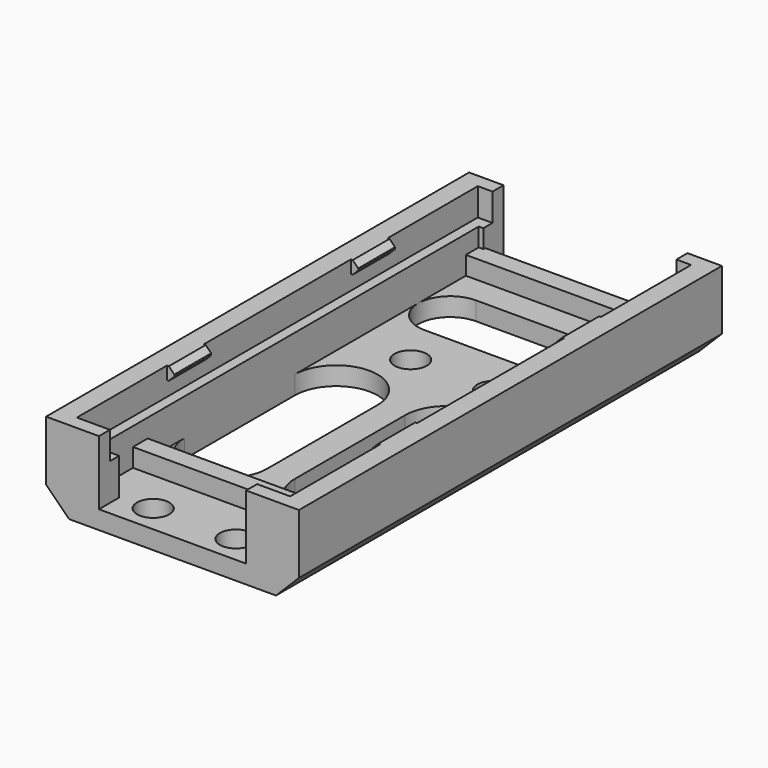
from build123d import *

# Parameters (mm, degrees)
SKETCH_W        = 27.5
SKETCH_H        = 57.5
SKETCH_R        = 1.75
PAD_DEPTH       = 9
POCKET_DEPTH    = 7
SKETCH002_W     = 23.2
SKETCH002_H     = 54.5
POCKET001_DEPTH = 3
SKETCH003_W     = 0.8
SKETCH003_H     = 5
PAD001_DEPTH    = 1.4
CHAMFER_SIZE    = 0.6
SKETCH004_W     = 20
SKETCH004_H     = 3
POCKET002_DEPTH = 9.001
SKETCH005_W     = 21.5
SKETCH005_H     = 2
PAD002_DEPTH    = 2
POCKET003_DEPTH = 3
CHAMFER001_SIZE = 2.5


with BuildPart() as part:
    # Sketch → Pad (new body)
    with BuildSketch(Plane.XY):
        Rectangle(SKETCH_W, SKETCH_H)
        with Locations((-4.5, 9.25)):
            Circle(SKETCH_R, mode=Mode.SUBTRACT)
        with Locations((-4.5, -25.75)):
            Circle(SKETCH_R, mode=Mode.SUBTRACT)
        with Locations((4.5, 9.25)):
            Circle(SKETCH_R, mode=Mode.SUBTRACT)
        with Locations((4.5, -25.75)):
            Circle(SKETCH_R, mode=Mode.SUBTRACT)
    extrude(amount=PAD_DEPTH)

    # Sketch001 (on Face10 of Pad) → Pocket (cut)
    with BuildSketch(Plane.XY.offset(9)):
        Polygon((-10.5, 26), (10.5, 26), (10.5, -26), (8, -26), (8, -29), (-8, -29), (-8, -26), (-10.5, -26), align=None)
    extrude(amount=-POCKET_DEPTH, mode=Mode.SUBTRACT)

    # Sketch002 (on Face5 of Pocket) → Pocket001 (cut)
    with BuildSketch(Plane.XY.offset(9)):
        Rectangle(SKETCH002_W, SKETCH002_H)
    extrude(amount=-POCKET001_DEPTH, mode=Mode.SUBTRACT)

    # Sketch003 (on Face5 of Pocket001) → Pad001 (join)
    with BuildSketch(Plane.XY.offset(9)):
        with Locations((-11.2, 12.5)):
            Rectangle(SKETCH003_W, SKETCH003_H)
        with Locations((-11.2, -12.5)):
            Rectangle(SKETCH003_W, SKETCH003_H)
        with Locations((11.2, -12.5)):
            Rectangle(SKETCH003_W, SKETCH003_H)
        with Locations((11.2, 12.5)):
            Rectangle(SKETCH003_W, SKETCH003_H)
    extrude(amount=-PAD001_DEPTH)

    # Chamfer
    chamfer_edges = [part.edges().sort_by_distance(p)[0] for p in [
        (-10.8, -12.5, 9),
        (-10.8, -12.5, 7.6),
        (-10.8, 12.5, 9),
        (-10.8, 12.5, 7.6),
        (10.8, 12.5, 9),
        (10.8, 12.5, 7.6),
        (10.8, -12.5, 9),
        (10.8, -12.5, 7.6),
    ]]
    chamfer(chamfer_edges, length=CHAMFER_SIZE)

    # Sketch004 (on Face4 of Chamfer) → Pocket002 (cut, through all)
    with BuildSketch(Plane.XY.offset(9)):
        with Locations((0, 27.5)):
            Rectangle(SKETCH004_W, SKETCH004_H)
    extrude(amount=-POCKET002_DEPTH, mode=Mode.SUBTRACT)

    # Sketch005 (on Face22 of Pocket002) → Pad002 (join)
    with BuildSketch(Plane.XY.offset(2)):
        with Locations((0, 25.25)):
            Rectangle(SKETCH005_W, SKETCH005_H)
        with Locations((0, -20)):
            Rectangle(SKETCH005_W, SKETCH005_H)
    extrude(amount=PAD002_DEPTH)

    # Sketch006 (on Face54 of Pad002) → Pocket003 (cut)
    with BuildSketch(Plane.XY.offset(2)):
        with BuildLine():
            ThreePointArc((-7, 21.25), (-10.5, 17.75), (-7, 14.25))
            Line((-7, 14.25), (7, 14.25))
            ThreePointArc((7, 14.25), (10.5, 17.75), (7, 21.25))
            Line((-7, 21.25), (7, 21.25))
        make_face()
        with BuildLine():
            ThreePointArc((-1.5, 1), (-6, 5.5), (-10.5, 1))
            Line((-10.5, 1), (-10.5, -14))
            ThreePointArc((-10.5, -14), (-6, -18.5), (-1.5, -14))
            Line((-1.5, 1), (-1.5, -14))
        make_face()
        with BuildLine():
            ThreePointArc((10.5, 1), (6, 5.5), (1.5, 1))
            Line((1.5, 1), (1.5, -14))
            ThreePointArc((1.5, -14), (6, -18.5), (10.5, -14))
            Line((10.5, 1), (10.5, -14))
        make_face()
    extrude(amount=-POCKET003_DEPTH, mode=Mode.SUBTRACT)

    # Chamfer001
    chamfer001_edges = [part.edges().sort_by_distance(p)[0] for p in [
        (-13.75, 0, 0),
        (13.75, 0, 0),
    ]]
    chamfer(chamfer001_edges, length=CHAMFER001_SIZE)


solid = part.part
